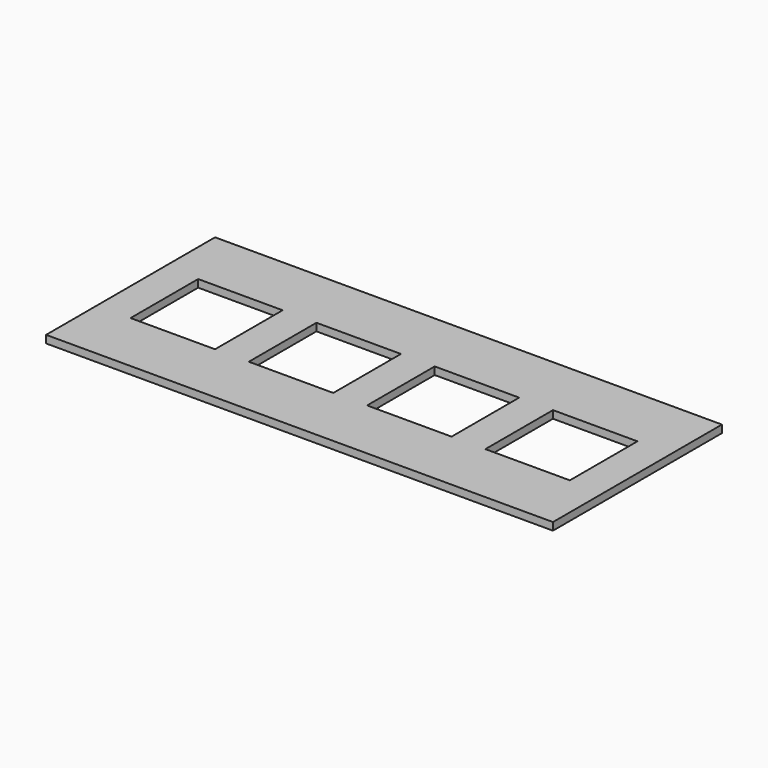
from build123d import *

# Parameters (mm, degrees)
SKETCH_W            = 1200
SKETCH_H            = 500
PAD_DEPTH           = 18
SKETCH006_W         = 200
SKETCH006_H         = 200
POCKET_DEPTH        = 18
LINEARPATTERN_COUNT = 4
LINEARPATTERN_PITCH = 280


with BuildPart() as part:
    # Sketch → Pad (new body)
    with BuildSketch(Plane.XY):
        Rectangle(SKETCH_W, SKETCH_H)
    extrude(amount=PAD_DEPTH)

    # Sketch006 (on Face6 of Pad) → Pocket (cut)
    with BuildSketch(Plane.XY.offset(18)):
        with Locations((-420, 0)):
            Rectangle(SKETCH006_W, SKETCH006_H)
    pocket = extrude(amount=-POCKET_DEPTH, mode=Mode.SUBTRACT)

    # LinearPattern: Pocket ×4
    with Locations(*[(i * LINEARPATTERN_PITCH, 0, 0) for i in range(1, LINEARPATTERN_COUNT)]):
        add(pocket, mode=Mode.SUBTRACT)


solid = part.part
